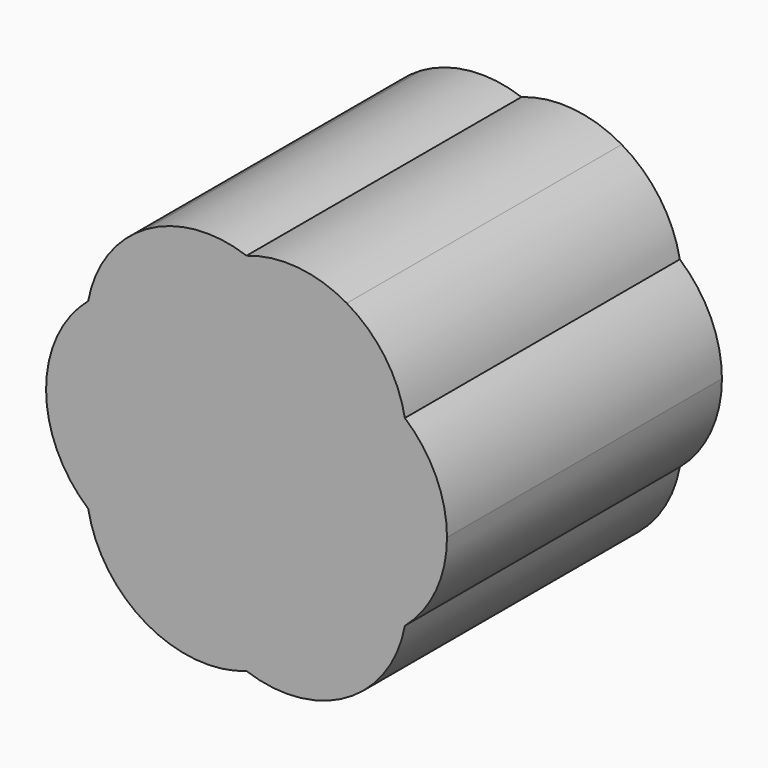
from build123d import *

# Parameters (mm, degrees)
F1_DEPTH = 6


with BuildPart() as f1:
    # F0 (on Front) → F1 (new body)
    with BuildSketch(Plane.XZ):
        with BuildLine():
            ThreePointArc((-2.7646428199, 1.5961672763), (-3.3073214079, 0.8787064623), (-3.5, 9.8e-09))
            ThreePointArc((-3.5, 9.8e-09), (-3.307321412, -0.8787064534), (-2.7646428199, -1.5961672763))
            ThreePointArc((-2.7646428199, -1.5961672763), (-2.7512648489, -0.7626439252), (-2.4146428199, 0))
            ThreePointArc((-2.4146428199, 0), (-2.7512648489, 0.7626439252), (-2.7646428199, 1.5961672763))
        make_face()
        with BuildLine():
            ThreePointArc((-1.20732141, 2.0911420231), (-2.0361014377, 2.0013432891), (-2.7646428199, 1.5961672763))
            ThreePointArc((-2.7646428199, 1.5961672763), (-2.7512648489, 0.7626439252), (-2.4146428199, 0))
            ThreePointArc((-2.4146428199, 0), (-1.9480270803, 0.4764778152), (-1.3555441712, 0.7826237921))
            ThreePointArc((-1.3555441712, 0.7826237921), (-1.3866554325, 1.4488020312), (-1.20732141, 2.0911420231))
        make_face()
        with BuildLine():
            ThreePointArc((0, 3.1923345526), (-0.8926785936, 3.3035775881), (-1.7500000062, 3.0310889097))
            ThreePointArc((-1.7500000062, 3.0310889097), (-2.414642822, 2.4248711277), (-2.7646428199, 1.5961672763))
            ThreePointArc((-2.7646428199, 1.5961672763), (-2.0361014377, 2.0013432891), (-1.20732141, 2.0911420231))
            ThreePointArc((-1.20732141, 2.0911420231), (-0.7151634112, 2.7639872143), (0, 3.1923345526))
        make_face()
        with BuildLine():
            ThreePointArc((1.20732141, 2.0911420231), (0.7151634112, 2.7639872143), (0, 3.1923345526))
            ThreePointArc((0, 3.1923345526), (-0.7151634112, 2.7639872143), (-1.20732141, 2.0911420231))
            ThreePointArc((-1.20732141, 2.0911420231), (-0.5613716479, 1.9252798464), (0, 1.5652475842))
            ThreePointArc((0, 1.5652475842), (0.5613716479, 1.9252798464), (1.20732141, 2.0911420231))
        make_face()
        with BuildLine():
            ThreePointArc((2.7646428199, 1.5961672763), (2.414642822, 2.4248711277), (1.7500000062, 3.0310889097))
            ThreePointArc((1.7500000062, 3.0310889097), (0.8926785936, 3.3035775881), (0, 3.1923345526))
            ThreePointArc((0, 3.1923345526), (0.7151634112, 2.7639872143), (1.20732141, 2.0911420231))
            ThreePointArc((1.20732141, 2.0911420231), (2.0361014377, 2.0013432891), (2.7646428199, 1.5961672763))
        make_face()
        with BuildLine():
            ThreePointArc((2.8, 1.2124355653), (2.7911420231, 1.4051141553), (2.7646428199, 1.5961672763))
            ThreePointArc((2.7646428199, 1.5961672763), (2.0361014377, 2.0013432891), (1.20732141, 2.0911420231))
            ThreePointArc((1.20732141, 2.0911420231), (1.3512648489, 1.6622272054), (1.4, 1.2124355653))
            ThreePointArc((1.4, 1.2124355653), (1.3888564766, 0.9963832099), (1.3555441712, 0.7826237921))
            ThreePointArc((1.3555441712, 0.7826237921), (1.9480270803, 0.4764778152), (2.4146428199, 0))
            ThreePointArc((2.4146428199, 0), (2.7013432891, 0.5763341276), (2.8, 1.2124355653))
        make_face()
        with BuildLine():
            ThreePointArc((2.7646428199, -1.5961672763), (3.30732141, -0.8787064578), (3.5, 0))
            ThreePointArc((3.5, 0), (3.30732141, 0.8787064578), (2.7646428199, 1.5961672763))
            ThreePointArc((2.7646428199, 1.5961672763), (2.7911420231, 1.4051141553), (2.8, 1.2124355653))
            ThreePointArc((2.8, 1.2124355653), (2.7013432891, 0.5763341276), (2.4146428199, 0))
            ThreePointArc((2.4146428199, 0), (2.7013432891, -0.5763341276), (2.8, -1.2124355653))
            ThreePointArc((2.8, -1.2124355653), (2.7911420231, -1.4051141553), (2.7646428199, -1.5961672763))
        make_face()
        with BuildLine():
            ThreePointArc((0, -3.1923345526), (0.8926786009, -3.3035775874), (1.750000019, -3.0310889023))
            ThreePointArc((1.750000019, -3.0310889023), (2.4146428263, -2.4248711217), (2.7646428199, -1.5961672763))
            ThreePointArc((2.7646428199, -1.5961672763), (2.0361014377, -2.0013432891), (1.20732141, -2.0911420231))
            ThreePointArc((1.20732141, -2.0911420231), (0.7151634112, -2.7639872143), (0, -3.1923345526))
        make_face()
        with BuildLine():
            ThreePointArc((-1.3555441712, -0.7826237921), (-1.3866554325, -1.4488020312), (-1.20732141, -2.0911420231))
            ThreePointArc((-1.20732141, -2.0911420231), (-0.5613716479, -1.9252798464), (0, -1.5652475842))
            ThreePointArc((0, -1.5652475842), (-0.2889133805, -1.2480270803), (-0.50732141, -0.8787064578))
            ThreePointArc((-0.50732141, -0.8787064578), (-0.9363664659, -0.8742198672), (-1.3555441712, -0.7826237921))
        make_face()
        with BuildLine():
            ThreePointArc((-2.7646428199, -1.5961672763), (-2.4146428151, -2.4248711375), (-1.7499999855, -3.0310889216))
            ThreePointArc((-1.7499999855, -3.0310889216), (-0.8926785817, -3.3035775892), (0, -3.1923345526))
            ThreePointArc((0, -3.1923345526), (-0.7151634112, -2.7639872143), (-1.20732141, -2.0911420231))
            ThreePointArc((-1.20732141, -2.0911420231), (-2.0361014377, -2.0013432891), (-2.7646428199, -1.5961672763))
        make_face()
        with BuildLine():
            ThreePointArc((-2.4146428199, 0), (-2.7512648489, -0.7626439252), (-2.7646428199, -1.5961672763))
            ThreePointArc((-2.7646428199, -1.5961672763), (-2.0361014377, -2.0013432891), (-1.20732141, -2.0911420231))
            ThreePointArc((-1.20732141, -2.0911420231), (-1.3866554325, -1.4488020312), (-1.3555441712, -0.7826237921))
            ThreePointArc((-1.3555441712, -0.7826237921), (-1.9480270803, -0.4764778152), (-2.4146428199, 0))
        make_face()
        with BuildLine():
            ThreePointArc((-1.20732141, -2.0911420231), (-0.7151634112, -2.7639872143), (0, -3.1923345526))
            ThreePointArc((0, -3.1923345526), (0.7151634112, -2.7639872143), (1.20732141, -2.0911420231))
            ThreePointArc((1.20732141, -2.0911420231), (0.5613716479, -1.9252798464), (0, -1.5652475842))
            ThreePointArc((0, -1.5652475842), (-0.5613716479, -1.9252798464), (-1.20732141, -2.0911420231))
        make_face()
        with BuildLine():
            ThreePointArc((0, -1.5652475842), (0.5613716479, -1.9252798464), (1.20732141, -2.0911420231))
            ThreePointArc((1.20732141, -2.0911420231), (1.3512648489, -1.6622272054), (1.4, -1.2124355653))
            ThreePointArc((1.4, -1.2124355653), (1.3888564766, -0.9963832099), (1.3555441712, -0.7826237921))
            ThreePointArc((1.3555441712, -0.7826237921), (0.9363664659, -0.8742198672), (0.50732141, -0.8787064578))
            ThreePointArc((0.50732141, -0.8787064578), (0.2889133805, -1.2480270803), (0, -1.5652475842))
        make_face()
        with BuildLine():
            ThreePointArc((1.20732141, -2.0911420231), (2.0361014377, -2.0013432891), (2.7646428199, -1.5961672763))
            ThreePointArc((2.7646428199, -1.5961672763), (2.7911420231, -1.4051141553), (2.8, -1.2124355653))
            ThreePointArc((2.8, -1.2124355653), (2.7013432891, -0.5763341276), (2.4146428199, 0))
            ThreePointArc((2.4146428199, 0), (1.9480270803, -0.4764778152), (1.3555441712, -0.7826237921))
            ThreePointArc((1.3555441712, -0.7826237921), (1.3888564766, -0.9963832099), (1.4, -1.2124355653))
            ThreePointArc((1.4, -1.2124355653), (1.3512648489, -1.6622272054), (1.20732141, -2.0911420231))
        make_face()
        with BuildLine():
            ThreePointArc((1.3555441712, -0.7826237921), (1.9480270803, -0.4764778152), (2.4146428199, 0))
            ThreePointArc((2.4146428199, 0), (1.9480270803, 0.4764778152), (1.3555441712, 0.7826237921))
            ThreePointArc((1.3555441712, 0.7826237921), (1.2252798464, 0.3738072132), (1.0146428199, 0))
            ThreePointArc((1.0146428199, 0), (1.2252798464, -0.3738072132), (1.3555441712, -0.7826237921))
        make_face()
        with BuildLine():
            ThreePointArc((1.4, 1.2124355653), (1.3512648489, 1.6622272054), (1.20732141, 2.0911420231))
            ThreePointArc((1.20732141, 2.0911420231), (0.5613716479, 1.9252798464), (0, 1.5652475842))
            ThreePointArc((0, 1.5652475842), (0.2889133805, 1.2480270803), (0.50732141, 0.8787064578))
            ThreePointArc((0.50732141, 0.8787064578), (0.9363664659, 0.8742198672), (1.3555441712, 0.7826237921))
            ThreePointArc((1.3555441712, 0.7826237921), (1.3888564766, 0.9963832099), (1.4, 1.2124355653))
        make_face()
        with BuildLine():
            ThreePointArc((0, 1.5652475842), (-0.5613716479, 1.9252798464), (-1.20732141, 2.0911420231))
            ThreePointArc((-1.20732141, 2.0911420231), (-1.3866554325, 1.4488020312), (-1.3555441712, 0.7826237921))
            ThreePointArc((-1.3555441712, 0.7826237921), (-0.9363664659, 0.8742198672), (-0.50732141, 0.8787064578))
            ThreePointArc((-0.50732141, 0.8787064578), (-0.2889133805, 1.2480270803), (0, 1.5652475842))
        make_face()
        with BuildLine():
            ThreePointArc((-1.3555441712, 0.7826237921), (-1.9480270803, 0.4764778152), (-2.4146428199, 0))
            ThreePointArc((-2.4146428199, 0), (-1.9480270803, -0.4764778152), (-1.3555441712, -0.7826237921))
            ThreePointArc((-1.3555441712, -0.7826237921), (-1.2252798464, -0.3738072132), (-1.0146428199, 0))
            ThreePointArc((-1.0146428199, 0), (-1.2252798464, 0.3738072132), (-1.3555441712, 0.7826237921))
        make_face()
        with BuildLine():
            ThreePointArc((-1.0146428199, 0), (-1.2252798464, -0.3738072132), (-1.3555441712, -0.7826237921))
            ThreePointArc((-1.3555441712, -0.7826237921), (-0.9363664659, -0.8742198672), (-0.50732141, -0.8787064578))
            ThreePointArc((-0.50732141, -0.8787064578), (-0.6013432891, -0.6361014377), (-0.6646428199, -0.383731711))
            ThreePointArc((-0.6646428199, -0.383731711), (-0.851551649, -0.2027278459), (-1.0146428199, 0))
        make_face()
        with BuildLine():
            ThreePointArc((-0.50732141, -0.8787064578), (-0.2889133805, -1.2480270803), (0, -1.5652475842))
            ThreePointArc((0, -1.5652475842), (0.2889133805, -1.2480270803), (0.50732141, -0.8787064578))
            ThreePointArc((0.50732141, -0.8787064578), (0.2502083599, -0.8388292836), (0, -0.767463422))
            ThreePointArc((0, -0.767463422), (-0.2502083599, -0.8388292836), (-0.50732141, -0.8787064578))
        make_face()
        with BuildLine():
            ThreePointArc((0, 0.767463422), (-0.35, 0.6062177826), (-0.6646428199, 0.383731711))
            ThreePointArc((-0.6646428199, 0.383731711), (-0.7, 0), (-0.6646428199, -0.383731711))
            ThreePointArc((-0.6646428199, -0.383731711), (-0.35, -0.6062177826), (0, -0.767463422))
            ThreePointArc((0, -0.767463422), (0.35, -0.6062177826), (0.6646428199, -0.383731711))
            ThreePointArc((0.6646428199, -0.383731711), (0.6911420231, -0.19267859), (0.7, 0))
            ThreePointArc((0.7, 0), (0.6911420231, 0.19267859), (0.6646428199, 0.383731711))
            ThreePointArc((0.6646428199, 0.383731711), (0.35, 0.6062177826), (0, 0.767463422))
        make_face()
        with BuildLine():
            ThreePointArc((0.50732141, 0.8787064578), (0.2889133805, 1.2480270803), (0, 1.5652475842))
            ThreePointArc((0, 1.5652475842), (-0.2889133805, 1.2480270803), (-0.50732141, 0.8787064578))
            ThreePointArc((-0.50732141, 0.8787064578), (-0.2502083599, 0.8388292836), (0, 0.767463422))
            ThreePointArc((0, 0.767463422), (0.2502083599, 0.8388292836), (0.50732141, 0.8787064578))
        make_face()
        with BuildLine():
            ThreePointArc((-0.50732141, 0.8787064578), (-0.9363664659, 0.8742198672), (-1.3555441712, 0.7826237921))
            ThreePointArc((-1.3555441712, 0.7826237921), (-1.2252798464, 0.3738072132), (-1.0146428199, 0))
            ThreePointArc((-1.0146428199, 0), (-0.851551649, 0.2027278459), (-0.6646428199, 0.383731711))
            ThreePointArc((-0.6646428199, 0.383731711), (-0.6013432891, 0.6361014377), (-0.50732141, 0.8787064578))
        make_face()
        with BuildLine():
            ThreePointArc((-0.6646428199, 0.383731711), (-0.851551649, 0.2027278459), (-1.0146428199, 0))
            ThreePointArc((-1.0146428199, 0), (-0.851551649, -0.2027278459), (-0.6646428199, -0.383731711))
            ThreePointArc((-0.6646428199, -0.383731711), (-0.7, 0), (-0.6646428199, 0.383731711))
        make_face()
        with BuildLine():
            ThreePointArc((-0.6646428199, -0.383731711), (-0.6013432891, -0.6361014377), (-0.50732141, -0.8787064578))
            ThreePointArc((-0.50732141, -0.8787064578), (-0.2502083599, -0.8388292836), (0, -0.767463422))
            ThreePointArc((0, -0.767463422), (-0.35, -0.6062177826), (-0.6646428199, -0.383731711))
        make_face()
        with BuildLine():
            ThreePointArc((1.0146428199, 0), (0.851551649, 0.2027278459), (0.6646428199, 0.383731711))
            ThreePointArc((0.6646428199, 0.383731711), (0.6911420231, 0.19267859), (0.7, 0))
            ThreePointArc((0.7, 0), (0.6911420231, -0.19267859), (0.6646428199, -0.383731711))
            ThreePointArc((0.6646428199, -0.383731711), (0.851551649, -0.2027278459), (1.0146428199, 0))
        make_face()
        with BuildLine():
            ThreePointArc((1.3555441712, 0.7826237921), (0.9363664659, 0.8742198672), (0.50732141, 0.8787064578))
            ThreePointArc((0.50732141, 0.8787064578), (0.6013432891, 0.6361014377), (0.6646428199, 0.383731711))
            ThreePointArc((0.6646428199, 0.383731711), (0.851551649, 0.2027278459), (1.0146428199, 0))
            ThreePointArc((1.0146428199, 0), (1.2252798464, 0.3738072132), (1.3555441712, 0.7826237921))
        make_face()
        with BuildLine():
            ThreePointArc((0, 0.767463422), (-0.2502083599, 0.8388292836), (-0.50732141, 0.8787064578))
            ThreePointArc((-0.50732141, 0.8787064578), (-0.6013432891, 0.6361014377), (-0.6646428199, 0.383731711))
            ThreePointArc((-0.6646428199, 0.383731711), (-0.35, 0.6062177826), (0, 0.767463422))
        make_face()
        with BuildLine():
            ThreePointArc((0.6646428199, 0.383731711), (0.6013432891, 0.6361014377), (0.50732141, 0.8787064578))
            ThreePointArc((0.50732141, 0.8787064578), (0.2502083599, 0.8388292836), (0, 0.767463422))
            ThreePointArc((0, 0.767463422), (0.35, 0.6062177826), (0.6646428199, 0.383731711))
        make_face()
        with BuildLine():
            ThreePointArc((0.50732141, -0.8787064578), (0.9363664659, -0.8742198672), (1.3555441712, -0.7826237921))
            ThreePointArc((1.3555441712, -0.7826237921), (1.2252798464, -0.3738072132), (1.0146428199, 0))
            ThreePointArc((1.0146428199, 0), (0.851551649, -0.2027278459), (0.6646428199, -0.383731711))
            ThreePointArc((0.6646428199, -0.383731711), (0.6013432891, -0.6361014377), (0.50732141, -0.8787064578))
        make_face()
        with BuildLine():
            ThreePointArc((0, -0.767463422), (0.2502083599, -0.8388292836), (0.50732141, -0.8787064578))
            ThreePointArc((0.50732141, -0.8787064578), (0.6013432891, -0.6361014377), (0.6646428199, -0.383731711))
            ThreePointArc((0.6646428199, -0.383731711), (0.35, -0.6062177826), (0, -0.767463422))
        make_face()
    extrude(amount=F1_DEPTH)


solid = f1.part
